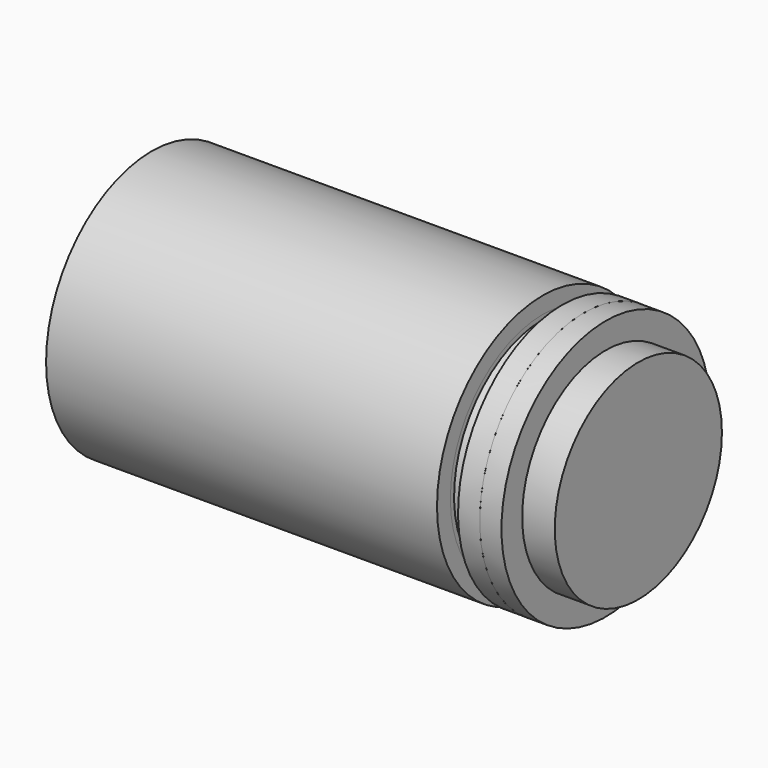
from build123d import *

# Parameters (mm, degrees)
F0_W          = 11.1125
F0_H          = 5.55625
F2_DEPTH      = 12.9032
F0_R          = 19.0881
F3_DEPTH      = 12.7
F4_START      = 2.778125
F0_R_2        = 23.8125
F0_R_3        = 22.621875
F4_DEPTH      = 3.96875
F1_R          = 24.13
F1_R_2        = 21.082
F1_R_3        = 20.447
F5_DEPTH      = 76.2
F5_DEPTH_BACK = 2.778125
F1_R_4        = 18.3134
F6_DEPTH      = 12.7
F6_DEPTH_BACK = 2.778125
F11_R         = 6.35
F12_DEPTH     = 53.975


with BuildPart() as f2:
    # F0 (on Right) → F2 (new body)
    with BuildSketch(Plane.YZ):
        Rectangle(F0_W, F0_H)
    extrude(amount=-F2_DEPTH)

    # F0 (on Right) → F3 (join)
    with BuildSketch(Plane.YZ):
        Circle(F0_R)
        Rectangle(F0_W, F0_H, mode=Mode.SUBTRACT)
        Rectangle(F0_W, F0_H)
    extrude(amount=F3_DEPTH)

    # F0 (on Right) → F4 (join)
    with BuildSketch(Plane.YZ.offset(F4_START)):
        Circle(F0_R_2)
        Circle(F0_R_3, mode=Mode.SUBTRACT)
        Circle(F0_R_2)
        Circle(F0_R_3, mode=Mode.SUBTRACT)
        Circle(F0_R_3)
        Circle(F0_R, mode=Mode.SUBTRACT)
        Rectangle(F0_W, F0_H)
    extrude(amount=F4_DEPTH)


with BuildPart() as f5:
    # F1 (on Right) → F5 (new body, two sides)
    with BuildSketch(Plane.YZ) as f5_sk:
        Circle(F1_R)
        Circle(F1_R_2, mode=Mode.SUBTRACT)
        Circle(F1_R_2)
        Circle(F1_R_3, mode=Mode.SUBTRACT)
    extrude(amount=-F5_DEPTH)
    extrude(f5_sk.sketch, amount=F5_DEPTH_BACK)


with BuildPart() as f6:
    # F1 (on Right) → F6 (new body, two sides)
    with BuildSketch(Plane.YZ) as f6_sk:
        Circle(F1_R_2)
        Circle(F1_R_3, mode=Mode.SUBTRACT)
        Circle(F1_R_3)
        Circle(F1_R_4, mode=Mode.SUBTRACT)
    extrude(amount=-F6_DEPTH)
    extrude(f6_sk.sketch, amount=F6_DEPTH_BACK)


with BuildPart() as f5_1:
    add(f5.part)

    # F7: cut F6
    add(f6.part, mode=Mode.SUBTRACT)


with BuildPart() as f9_tool:
    # F8 (on Front) → F9 (revolve)
    with BuildSketch(Plane.XZ):
        Polygon((-1.190625, 23.8125), (2.778125, 23.8125), (2.778125, 26.590625), (-4.7770133242, 26.590625), (-4.7770133242, 20.240625), (-1.7616940895, 20.240625), align=None)
    revolve(axis=Axis((0.5718530156, 0, 0), (-1, 0, 0)))


with BuildPart() as f5_2:
    add(f5_1.part)

    # F9: cut by f9_tool
    add(f9_tool.part, mode=Mode.SUBTRACT)


with BuildPart() as f6_1:
    add(f6.part)

    # F9: cut by f9_tool
    add(f9_tool.part, mode=Mode.SUBTRACT)

    # F10: cut F2
    add(f2.part, mode=Mode.SUBTRACT)


with BuildPart() as f12:
    # F11 (on face) → F12 (new body)
    with BuildSketch(Plane(origin=(-76.2, 0, 0), x_dir=(0, -1, 0), z_dir=(-1, 0, 0))):
        Circle(F11_R)
    extrude(amount=-F12_DEPTH)


solid = Compound([f2.part, f5_2.part, f6_1.part, f12.part])
